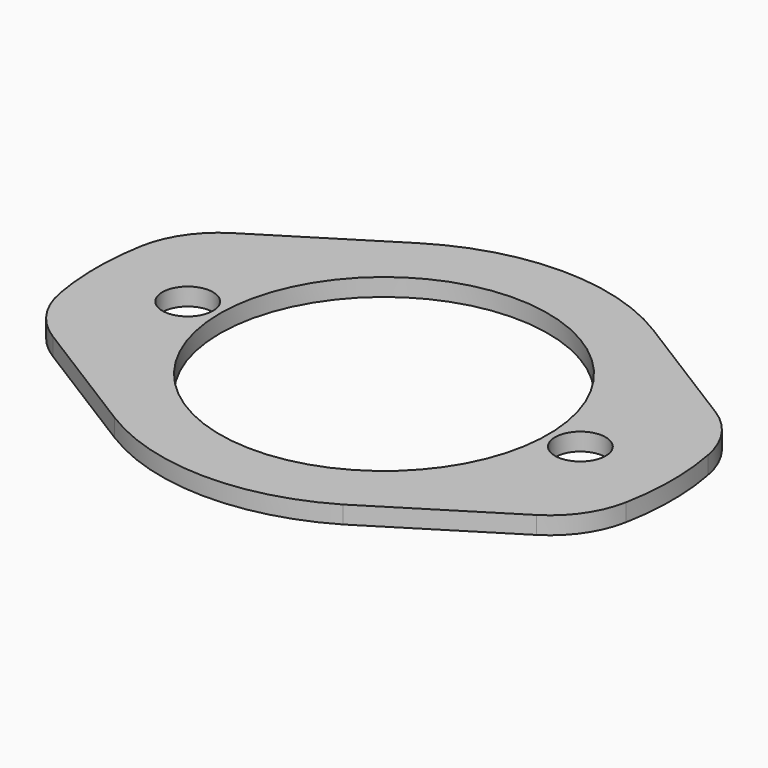
from build123d import *

# Parameters (mm, degrees)
F0_R     = 6.858
F1_DEPTH = 4.7625


with BuildPart() as f1:
    # F0 (on Top) → F1 (new body)
    with BuildSketch(Plane.XY):
        with BuildLine():
            ThreePointArc((-33.360649, 13.814234), (-34.603048, 0.046057), (-33.376957, -13.723581))
            ThreePointArc((-33.376957, -13.723581), (-29.549678, -23.21519), (-22.156792, -30.292191))
            Line((-22.156792, -30.292191), (11.323438, -51.212653))
            ThreePointArc((11.323438, -51.212653), (42.490556, -60.360838), (73.897804, -52.074505))
            Line((73.897804, -52.074505), (108.839764, -30.261436))
            ThreePointArc((108.839764, -30.261436), (116.142274, -23.23358), (119.984489, -13.855157))
            ThreePointArc((119.984489, -13.855157), (121.301479, -0.00415), (119.985359, 13.84694))
            ThreePointArc((119.985359, 13.84694), (116.14346, 23.236597), (108.83063, 30.26855))
            Line((108.83063, 30.26855), (75.312555, 51.212004))
            ThreePointArc((75.312555, 51.212004), (43.309839, 60.395046), (11.308, 51.208947))
            Line((11.308, 51.208947), (-22.223896, 30.269336))
            ThreePointArc((-22.223896, 30.269336), (-29.510199, 23.204472), (-33.360649, 13.814234))
        make_face()
        with Locations((-9.860053, 0)):
            Circle(F0_R, mode=Mode.SUBTRACT)
        with BuildLine():
            ThreePointArc((87.726747, 0), (43.302147, -44.4246), (-1.122453, 0))
            ThreePointArc((-1.122453, 0), (43.302147, 44.4246), (87.726747, 0))
        make_face(mode=Mode.SUBTRACT)
        with BuildLine():
            ThreePointArc((103.347747, 0), (96.489747, -6.858), (89.631747, 0))
            ThreePointArc((89.631747, 0), (96.489747, 6.858), (103.347747, 0))
        make_face(mode=Mode.SUBTRACT)
    extrude(amount=F1_DEPTH)


solid = f1.part
